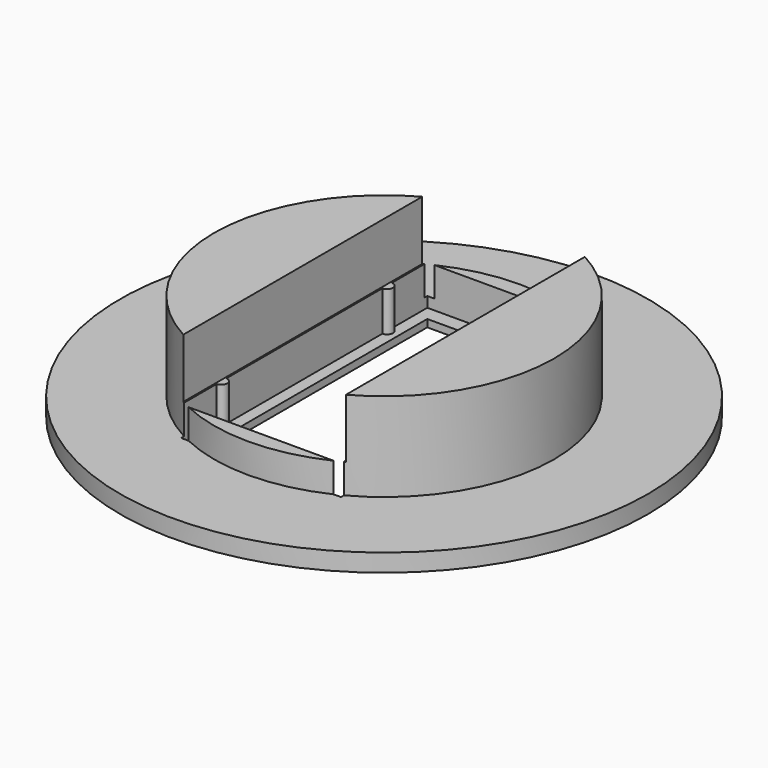
from build123d import *

# Parameters (mm, degrees)
F0_R     = 17.85
F1_DEPTH = 1.2
F2_R     = 11.5
F3_DEPTH = 6
F4_W     = 9.2
F4_H     = 18.8
F5_DEPTH = 7.201
F7_DEPTH = 6.7
F8_W     = 11
F8_H     = 25
F9_DEPTH = 4


with BuildPart() as f1:
    # F0 (on Top) → F1 (new body)
    with BuildSketch(Plane.XY):
        Circle(F0_R)
    extrude(amount=F1_DEPTH)

    # F2 (on face) → F3 (join)
    with BuildSketch(Plane.XY.offset(1.2)):
        Circle(F2_R)
    extrude(amount=F3_DEPTH)

    # F4 (on face) → F5 (cut, through all)
    with BuildSketch(Plane.XY.offset(7.2)):
        Rectangle(F4_W, F4_H)
    extrude(amount=-F5_DEPTH, mode=Mode.SUBTRACT)

    # F6 (on face) → F7 (cut)
    with BuildSketch(Plane.XY.offset(7.2)):
        with BuildLine():
            Line((5.4, 10.4), (-5.4, 10.4))
            Line((-5.4, 10.4), (-5.4, 7.4))
            ThreePointArc((-5.4, 7.4), (-5, 7), (-5.4, 6.6))
            Line((-5.4, 6.6), (-5.4, -6.6))
            ThreePointArc((-5.4, -6.6), (-5, -7), (-5.4, -7.4))
            Line((-5.4, -7.4), (-5.4, -10.4))
            Line((-5.4, -10.4), (5.4, -10.4))
            Line((5.4, -10.4), (5.4, -7.4))
            ThreePointArc((5.4, -7.4), (5, -7), (5.4, -6.6))
            Line((5.4, -6.6), (5.4, 6.6))
            ThreePointArc((5.4, 6.6), (5, 7), (5.4, 7.4))
            Line((5.4, 7.4), (5.4, 10.4))
        make_face()
    extrude(amount=-F7_DEPTH, mode=Mode.SUBTRACT)

    # F8 (on face) → F9 (cut)
    with BuildSketch(Plane.XY.offset(7.2)):
        Rectangle(F8_W, F8_H)
    extrude(amount=-F9_DEPTH, mode=Mode.SUBTRACT)


solid = f1.part
